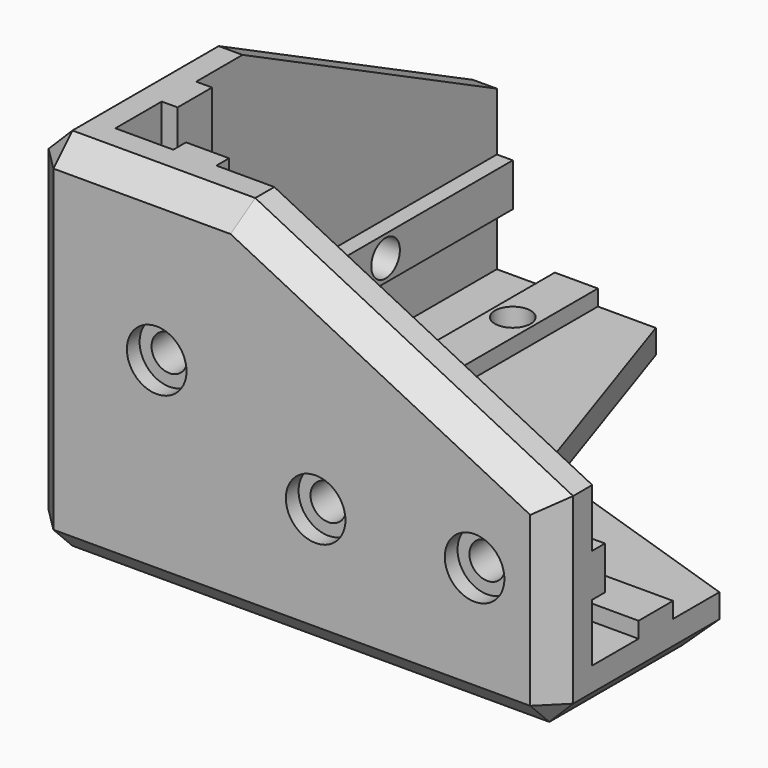
from build123d import *

# Parameters (mm, degrees)
F1_DEPTH  = 6
F3_DEPTH  = 20
F5_DEPTH  = 20
F7_DEPTH  = 40
F9_DEPTH  = 2
F11_DEPTH = 2
F13_DEPTH = 2
F14_R     = 2.25
F15_DEPTH = 8
F16_R     = 2.25
F17_DEPTH = 8
F18_R     = 2.25
F19_DEPTH = 8
F20_R     = 3.75
F21_DEPTH = 2
F22_R     = 3.75
F23_DEPTH = 2
F24_R     = 3.75
F25_DEPTH = 2
F27_DEPTH = 6
F29_DEPTH = 6
F31_DEPTH = 6
F32_SIZE  = 3


with BuildPart() as f1:
    # F0 (on Top) → F1 (new body)
    with BuildSketch(Plane.XY):
        Polygon((0, 66), (0, 0), (66, 0), (66, 26), (26, 26), (26, 66), align=None)
    extrude(amount=F1_DEPTH)

    # F2 (on face) → F3 (join)
    with BuildSketch(Plane.XY.offset(6)):
        Polygon((6, 66), (0, 66), (0, 0), (66, 0), (66, 6), (6, 6), align=None)
    extrude(amount=F3_DEPTH)

    # F4 (on face) → F5 (join)
    with BuildSketch(Plane.XY.offset(26)):
        Polygon((6, 6), (6, 26), (0, 26), (0, 0), (26, 0), (26, 6), align=None)
    extrude(amount=F5_DEPTH)

    # F6 (on face) → F7 (join)
    with BuildSketch(Plane.XY.offset(6)):
        Polygon((13.29, 6), (16, 6), (18.71, 6), (18.71, 8), (13.29, 8), align=None)
        Polygon((6, 18.71), (6, 16), (6, 13.29), (8, 13.29), (8, 18.71), align=None)
    extrude(amount=F7_DEPTH)

    # F8 (on face) → F9 (join)
    with BuildSketch(Plane.XY.offset(6)):
        Polygon((66, 13.29), (66, 16), (66, 18.71), (26, 18.71), (26, 13.29), align=None)
        Polygon((18.71, 66), (16, 66), (13.29, 66), (13.29, 26), (18.71, 26), align=None)
    extrude(amount=F9_DEPTH)

    # F10 (on face) → F11 (join)
    with BuildSketch(Plane(origin=(0, 6, 0), x_dir=(-1, 0, 0), z_dir=(0, 1, 0))):
        Polygon((-66, 18.71), (-66, 16), (-66, 13.29), (-26, 13.29), (-26, 16), (-26, 18.71), align=None)
    extrude(amount=F11_DEPTH)

    # F12 (on face) → F13 (join)
    with BuildSketch(Plane.YZ.offset(6)):
        Polygon((66, 13.29), (66, 16), (66, 18.71), (26, 18.71), (26, 13.29), align=None)
    extrude(amount=F13_DEPTH)

    # F14 (on face) → F15 (cut, through all)
    with BuildSketch(Plane.XZ):
        with Locations((56, 16)):
            Circle(F14_R)
        with Locations((16, 26)):
            Circle(F14_R)
        with Locations((36, 16)):
            Circle(F14_R)
    extrude(amount=-F15_DEPTH, mode=Mode.SUBTRACT)

    # F16 (on face) → F17 (cut, through all)
    with BuildSketch(Plane(origin=(0, 0, 0), x_dir=(0, -1, 0), z_dir=(-1, 0, 0))):
        with Locations((-16, 36)):
            Circle(F16_R)
        with Locations((-46, 16)):
            Circle(F16_R)
        with Locations((-16, 16)):
            Circle(F16_R)
    extrude(amount=-F17_DEPTH, mode=Mode.SUBTRACT)

    # F18 (on face) → F19 (cut, through all)
    with BuildSketch(Plane(origin=(0, 0, 0), x_dir=(1, 0, 0), z_dir=(0, 0, -1))):
        with Locations((46, -16)):
            Circle(F18_R)
        with Locations((16, -56)):
            Circle(F18_R)
        with Locations((16, -36)):
            Circle(F18_R)
    extrude(amount=-F19_DEPTH, mode=Mode.SUBTRACT)

    # F20 (on face) → F21 (cut)
    with BuildSketch(Plane.XZ):
        with Locations((16, 26)):
            Circle(F20_R)
        with Locations((36, 16)):
            Circle(F20_R)
        with Locations((56, 16)):
            Circle(F20_R)
    extrude(amount=-F21_DEPTH, mode=Mode.SUBTRACT)

    # F22 (on face) → F23 (cut)
    with BuildSketch(Plane(origin=(0, 0, 0), x_dir=(0, -1, 0), z_dir=(-1, 0, 0))):
        with Locations((-16, 36)):
            Circle(F22_R)
        with Locations((-46, 16)):
            Circle(F22_R)
        with Locations((-16, 16)):
            Circle(F22_R)
    extrude(amount=-F23_DEPTH, mode=Mode.SUBTRACT)

    # F24 (on face) → F25 (cut)
    with BuildSketch(Plane(origin=(0, 0, 0), x_dir=(1, 0, 0), z_dir=(0, 0, -1))):
        with Locations((16, -56)):
            Circle(F24_R)
        with Locations((46, -16)):
            Circle(F24_R)
        with Locations((16, -36)):
            Circle(F24_R)
    extrude(amount=-F25_DEPTH, mode=Mode.SUBTRACT)

    # F26 (on face) → F27 (join)
    with BuildSketch(Plane.XZ):
        Polygon((66, 26), (26, 46), (26, 26), align=None)
    extrude(amount=-F27_DEPTH)

    # F28 (on face) → F29 (join)
    with BuildSketch(Plane(origin=(0, 0, 0), x_dir=(0, -1, 0), z_dir=(-1, 0, 0))):
        Polygon((-26, 46), (-66, 26), (-26, 26), align=None)
    extrude(amount=-F29_DEPTH)

    # F30 (on face) → F31 (join)
    with BuildSketch(Plane(origin=(0, 0, 0), x_dir=(1, 0, 0), z_dir=(0, 0, -1))):
        Polygon((26, -26), (26, -66), (36, -36), (66, -26), align=None)
    extrude(amount=-F31_DEPTH)

    # F32
    f32_edges = [f1.edges().sort_by_distance(p)[0] for p in [
        (46, 0, 36),
        (13, 0, 46),
        (0, 13, 46),
        (0, 46, 36),
        (31, 51, 0),
        (51, 31, 0),
        (13, 66, 0),
        (66, 13, 0),
        (66, 0, 13),
        (0, 66, 13),
        (33, 0, 0),
        (0, 33, 0),
        (0, 0, 23),
    ]]
    chamfer(f32_edges, length=F32_SIZE)


solid = f1.part
